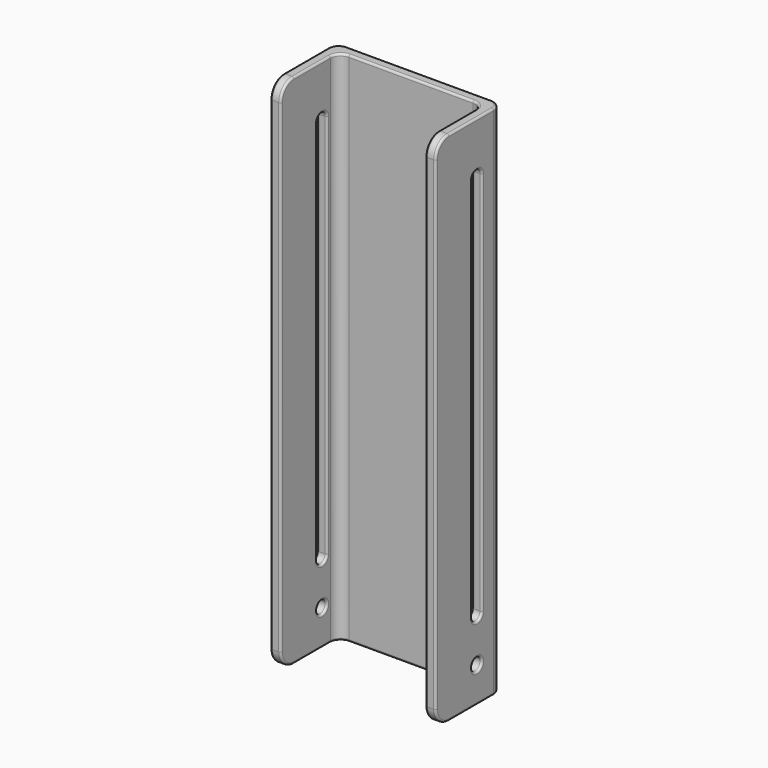
from build123d import *

# Parameters (mm, degrees)
F1_DEPTH = 250
F2_R     = 3
F3_DEPTH = 50
F4_R     = 8
F5_R     = 1


with BuildPart() as f1:
    # F0 (on Top) → F1 (new body)
    with BuildSketch(Plane.XY):
        with BuildLine():
            Line((35, 30), (-35, 30))
            ThreePointArc((-35, 30), (-38.5355339059, 28.5355339059), (-40, 25))
            Line((-40, 25), (-40, -10))
            Line((-40, -10), (-35, -10))
            Line((-35, -10), (-35, 20))
            ThreePointArc((-35, 20), (-33.5355339059, 23.5355339059), (-30, 25))
            Line((-30, 25), (30, 25))
            ThreePointArc((30, 25), (33.5355339059, 23.5355339059), (35, 20))
            Line((35, 20), (35, -10))
            Line((35, -10), (40, -10))
            Line((40, -10), (40, 25))
            ThreePointArc((40, 25), (38.5355339059, 28.5355339059), (35, 30))
        make_face()
    extrude(amount=F1_DEPTH)

    # F2 (on Right) → F3 (cut, symmetric)
    with BuildSketch(Plane.YZ):
        with BuildLine():
            Line((17.9938603863, 192.7300840616), (17.9938603863, 224.7487455606))
            ThreePointArc((17.9938603863, 224.7487455606), (14.9938603863, 227.7487455606), (11.9938603863, 224.7487455606))
            Line((11.9938603863, 224.7487455606), (11.9938603863, 192.7300840616))
            Line((11.9938603863, 192.7300840616), (11.9938603863, 38.4052284062))
            ThreePointArc((11.9938603863, 38.4052284062), (14.9938603863, 35.4052284062), (17.9938603863, 38.4052284062))
            Line((17.9938603863, 38.4052284062), (17.9938603863, 192.7300840616))
        make_face()
        with Locations((14.9938603863, 17.085256055)):
            Circle(F2_R)
    extrude(amount=F3_DEPTH, both=True, mode=Mode.SUBTRACT)

    # F4
    f4_edges = [f1.edges().sort_by_distance(p)[0] for p in [
        (-37.5, -10, 250),
        (37.5, -10, 250),
        (-37.5, -10, 0),
        (37.5, -10, 0),
    ]]
    fillet(f4_edges, radius=F4_R)

    # F5
    f5_edges = [f1.edges().sort_by_distance(p)[0] for p in [
        (-40, 11.5, 250),
        (-35, 9, 250),
        (-40, 17.99386, 131.576987),
        (-35, 17.99386, 131.576987),
        (-40, 11.99386, 17.085256),
        (35, 11.99386, 17.085256),
        (35, 17.99386, 131.576987),
        (40, 17.99386, 131.576987),
        (40, 11.99386, 17.085256),
        (-35, 11.99386, 17.085256),
    ]]
    fillet(f5_edges, radius=F5_R)


solid = f1.part
